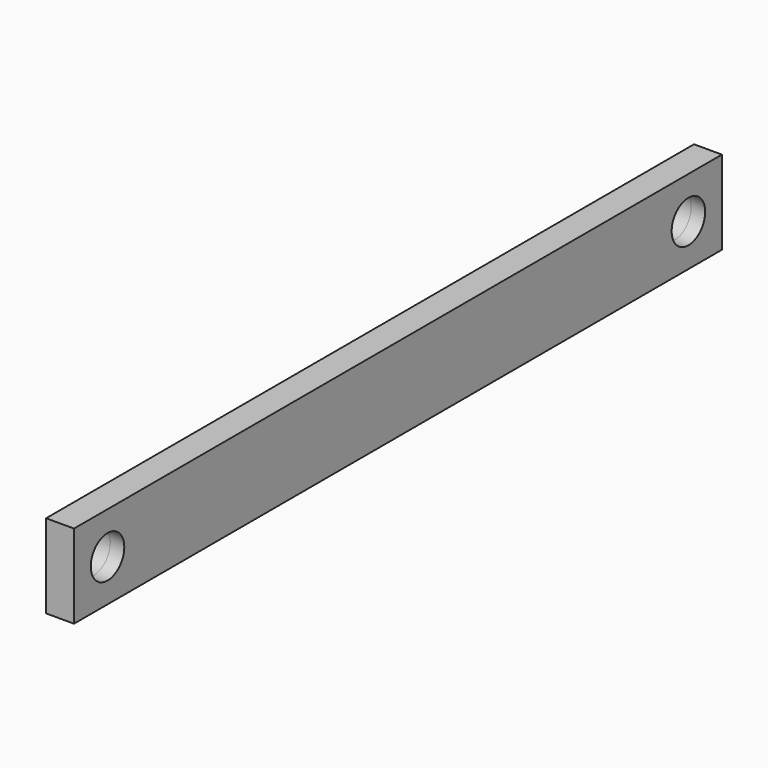
from build123d import *

# Parameters (mm, degrees)
F0_W          = 58
F0_H          = 6
F0_R          = 1.5
F1_DEPTH      = 1
F1_DEPTH_BACK = 1


with BuildPart() as f1:
    # F0 (on Right) → F1 (new body, two sides)
    with BuildSketch(Plane.YZ) as f1_sk:
        Rectangle(F0_W, F0_H)
        with Locations((-26, 0)):
            Circle(F0_R, mode=Mode.SUBTRACT)
        with Locations((26, 0)):
            Circle(F0_R, mode=Mode.SUBTRACT)
    extrude(amount=F1_DEPTH)
    extrude(f1_sk.sketch, amount=-F1_DEPTH_BACK)


solid = f1.part
